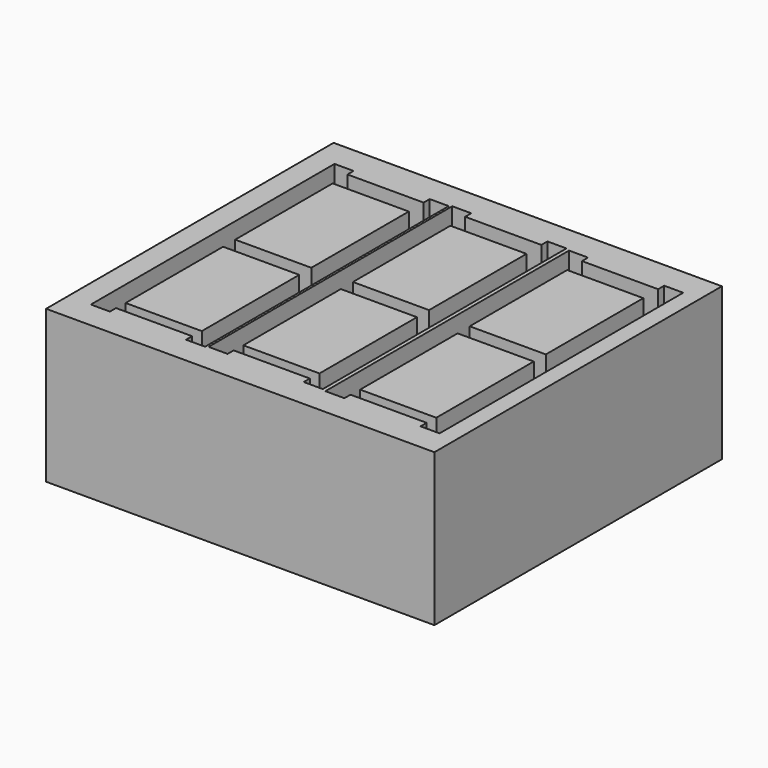
from build123d import *

# Parameters (mm, degrees)
F0_W     = 510
F0_H     = 472
F1_DEPTH = 200
F2_W     = 100
F2_H     = 160
F3_DEPTH = 191
F4_W     = 100
F4_H     = 160
F5_DEPTH = 191
F6_W     = 100
F6_H     = 160
F7_DEPTH = 191


with BuildPart() as f1:
    # F0 (on Top) → F1 (new body)
    with BuildSketch(Plane.XY):
        with Locations((-61.286047, -26.417014)):
            Rectangle(F0_W, F0_H)
    extrude(amount=F1_DEPTH)

    # F2 (on face) → F3 (cut)
    with BuildSketch(Plane.XY.offset(200)):
        Polygon((-261.286047, 173.582986), (-286.286047, 173.582986), (-286.286047, -226.417014), (-261.286047, -226.417014), (-261.286047, -216.417014), (-161.286047, -216.417014), (-161.286047, -226.417014), (-136.286047, -226.417014), (-136.286047, 173.582986), (-161.286047, 173.582986), (-161.286047, 163.582986), (-261.286047, 163.582986), align=None)
        with Locations((-210.600971, -121.426403)):
            Rectangle(F2_W, F2_H, mode=Mode.SUBTRACT)
        with Locations((-210.732838, 58.589107)):
            Rectangle(F2_W, F2_H, mode=Mode.SUBTRACT)
    extrude(amount=-F3_DEPTH, mode=Mode.SUBTRACT)

    # F4 (on face) → F5 (cut)
    with BuildSketch(Plane.XY.offset(200)):
        Polygon((-108.286047, 175.583639), (-133.286047, 175.583639), (-133.286047, -224.416361), (-108.286047, -224.416361), (-108.286047, -214.416361), (-8.286047, -214.416361), (-8.286047, -224.416361), (16.713953, -224.416361), (16.713953, 175.583639), (-8.286047, 175.583639), (-8.286047, 165.583639), (-108.286047, 165.583639), align=None)
        with Locations((-57.600971, -119.425749)):
            Rectangle(F4_W, F4_H, mode=Mode.SUBTRACT)
        with Locations((-57.732838, 60.589761)):
            Rectangle(F4_W, F4_H, mode=Mode.SUBTRACT)
    extrude(amount=-F5_DEPTH, mode=Mode.SUBTRACT)

    # F6 (on face) → F7 (cut)
    with BuildSketch(Plane.XY.offset(200)):
        Polygon((46.713953, 173.582986), (21.713953, 173.582986), (21.713953, -226.417014), (46.713953, -226.417014), (46.713953, -216.417014), (146.713953, -216.417014), (146.713953, -226.417014), (171.713953, -226.417014), (171.713953, 173.582986), (146.713953, 173.582986), (146.713953, 163.582986), (46.713953, 163.582986), align=None)
        with Locations((97.399029, -121.426403)):
            Rectangle(F6_W, F6_H, mode=Mode.SUBTRACT)
        with Locations((97.267162, 58.589107)):
            Rectangle(F6_W, F6_H, mode=Mode.SUBTRACT)
    extrude(amount=-F7_DEPTH, mode=Mode.SUBTRACT)


solid = f1.part
